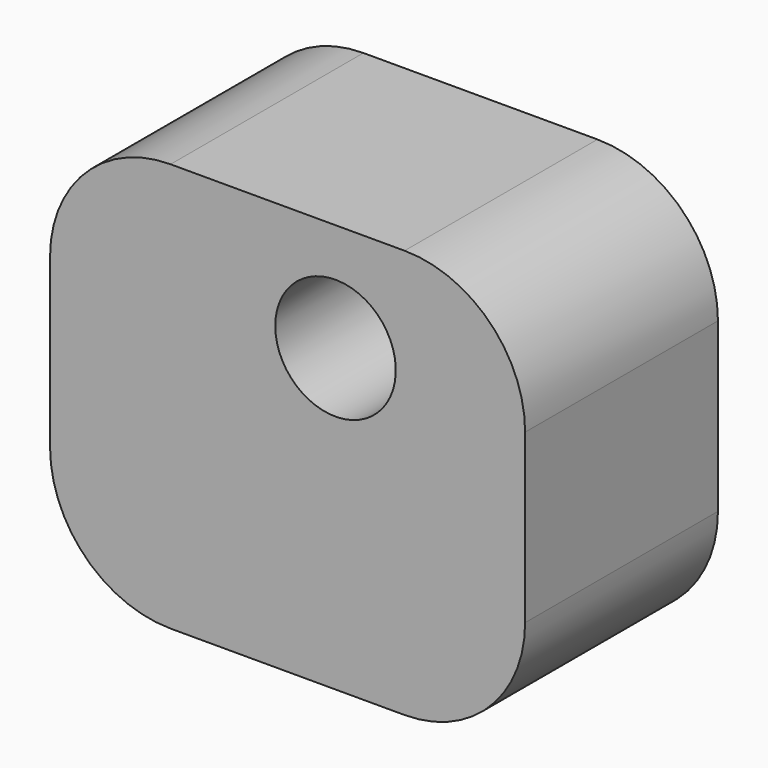
from build123d import *

# Parameters (mm, degrees)
F0_W     = 100.119468
F0_H     = 86.142674
F1_DEPTH = 50.8
F2_R     = 25.4
F4_D     = 25.4


with BuildPart() as f1:
    # F0 (on Front) → F1 (new body)
    with BuildSketch(Plane.XZ):
        with Locations((1.568822, 9.270322)):
            Rectangle(F0_W, F0_H)
    extrude(amount=F1_DEPTH)

    # F2
    f2_edges = [f1.edges().sort_by_distance(p)[0] for p in [
        (51.628556, -25.4, 52.341659),
        (-48.490912, -25.4, 52.341659),
        (-48.490912, -25.4, -33.801015),
        (51.628556, -25.4, -33.801015),
    ]]
    fillet(f2_edges, radius=F2_R)

    # F4 (through all)
    with Locations(Plane.XZ.offset(50.8)):
        with Locations((11.67061, 29.531537)):
            Hole(F4_D / 2)


solid = f1.part
